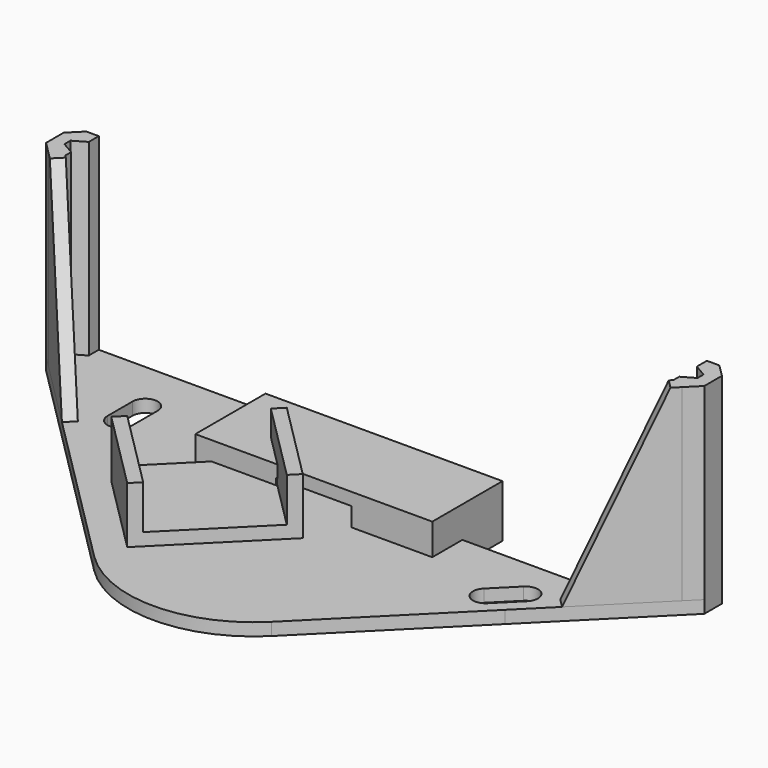
from build123d import *

# Parameters (mm, degrees)
PAD_DEPTH    = 14
PAD001_DEPTH = 30
PAD002_DEPTH = 2
PAD003_DEPTH = 2
PAD004_DEPTH = 2
POCKET_DEPTH = 2.001
PAD005_DEPTH = 18
PAD006_DEPTH = 2
PAD007_DEPTH = 2


with BuildPart() as cableclampbody:
    # Sketch → Pad (new body)
    with BuildSketch(Plane.XZ):
        Polygon((-6, 0), (-6, 3), (6, 3), (6, 0), (16.9, 0), (16.9, -1.4), (15.9, -2.4), (16.9, -3.4), (18.9, -3.4), (18.9, 5), (-18.9, 5), (-18.9, -3.4), (-16.9, -3.4), (-15.9, -2.4), (-16.9, -1.4), (-16.9, 0), align=None)
    extrude(amount=PAD_DEPTH)


with BuildPart() as obj1:
    # Sketch001 → Pad001 (new body)
    with BuildSketch(Plane.XY):
        Polygon((-50.5, 0.6), (-50.5, -0.6), (-48.5, -1.754701), (-48.5, -3.754701), (-50.5, -3.754701), (-52.5, -1.754701), (-52.5, 1.754701), (-50.5, 3.754701), (-48.5, 3.754701), (-48.5, 1.754701), align=None)
    pad001 = extrude(amount=PAD001_DEPTH)

    # Sketch002 → Pad002 (join)
    with BuildSketch(Plane.XY):
        Polygon((-48.5, 3.754701), (-50.5, 3.754701), (-52.5, 1.754701), (-52.5, -1.754701), (-34.82233, -19.43237), (0, -19.43237), (0, -8), (-36.745299, -8), align=None)
    pad002 = extrude(amount=-PAD002_DEPTH)

    # Mirrored: Pad002, Pad001 across Sketch002 V_Axis
    add(pad002.mirror(Plane(origin=(0, 0, 0), x_dir=(0, 0, 1), z_dir=(1, 0, 0))))
    add(pad001.mirror(Plane(origin=(0, 0, 0), x_dir=(0, 0, 1), z_dir=(1, 0, 0))))

    # Sketch003 → Pad003 (join)
    with BuildSketch(Plane.XY):
        Polygon((11.754701, -8), (-36.745299, -8), (-48.5, 3.754701), (0, 3.754701), align=None)
    extrude(amount=-PAD003_DEPTH)

    # Sketch004 → Pad004 (join)
    with BuildSketch(Plane.XY):
        with BuildLine():
            Line((-34.82233, -19.43237), (-14.142136, -40.112565))
            ThreePointArc((-14.142136, -40.112565), (0, -45.970429), (14.142136, -40.112565))
            Line((34.82233, -19.43237), (14.142136, -40.112565))
            Line((34.82233, -19.43237), (-34.82233, -19.43237))
        make_face()
    extrude(amount=-PAD004_DEPTH)

    # Sketch005 → Pocket (cut, through all)
    with BuildSketch(Plane.XY):
        with BuildLine():
            ThreePointArc((-32.5, -4.5), (-34.5, -2.5), (-36.5, -4.5))
            Line((-36.5, -4.5), (-36.5, -9.5))
            ThreePointArc((-36.5, -9.5), (-34.5, -11.5), (-32.5, -9.5))
            Line((-32.5, -4.5), (-32.5, -9.5))
        make_face()
        with BuildLine():
            ThreePointArc((35.547636, -15.87868), (35.547636, -13.050253), (32.719209, -13.050253))
            Line((32.719209, -13.050253), (29.183675, -16.585786))
            ThreePointArc((29.183675, -16.585786), (29.183675, -19.414214), (32.012102, -19.414214))
            Line((35.547636, -15.87868), (32.012102, -19.414214))
        make_face()
    extrude(amount=-POCKET_DEPTH, mode=Mode.SUBTRACT)

    # Sketch006 (on Face20 of Pocket) → Pad005 (join)
    with BuildSketch(Plane(origin=(11.571001, -11.571001, 0), x_dir=(0.707107, 0.707107, 0), z_dir=(0.707107, -0.707107, 0))):
        Polygon((-34, 0), (-34, 9), (-32, 9), (-32, 2), (-14, 2), (-14, 9), (-12, 9), (-12, 0), align=None)
    extrude(amount=-PAD005_DEPTH)

    # Sketch007 (on Face20 of Pad005) → Pad006 (join)
    with BuildSketch(Plane(origin=(27.12735, -27.12735, 0), x_dir=(0.707107, 0.707107, 0), z_dir=(0.707107, -0.707107, 0))):
        Polygon((18.053918, 0), (33.053918, 0), (33.053918, 30), (31.639705, 30), align=None)
    extrude(amount=-PAD006_DEPTH)

    # Sketch008 (on Face20 of Pad006) → Pad007 (join)
    with BuildSketch(Plane(origin=(-27.12735, -27.12735, 0), x_dir=(0.707107, -0.707107, 0), z_dir=(-0.707107, -0.707107, 0))):
        Polygon((-18.053918, 0), (-33.053918, 0), (-33.053918, 30), (-31.639705, 30), align=None)
    extrude(amount=-PAD007_DEPTH)


solid = Compound([cableclampbody.part, obj1.part])
